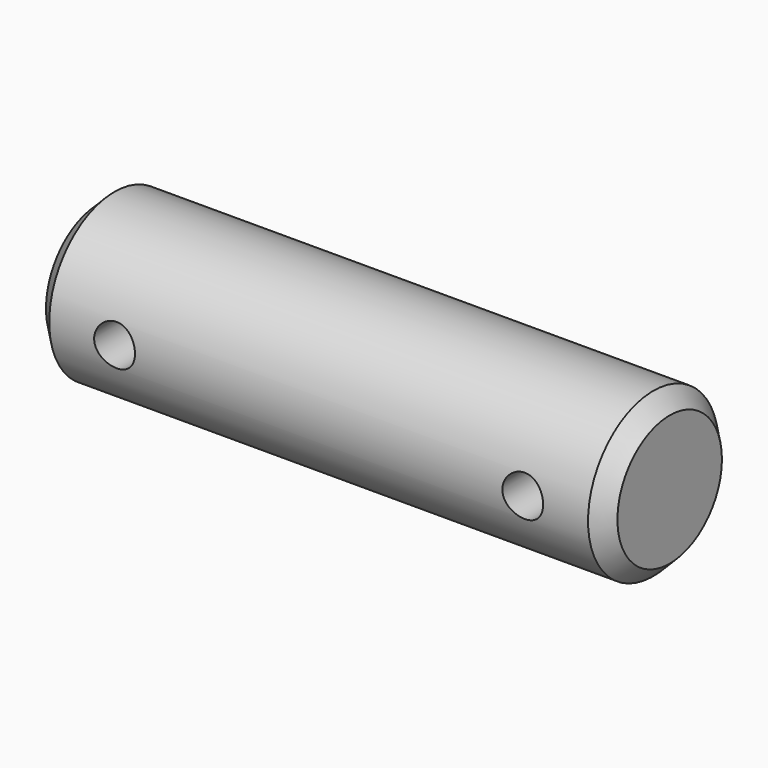
from build123d import *

# Parameters (mm, degrees)
F0_R     = 25.4
F1_DEPTH = 177.8
F2_SIZE  = 5.08
F4_D     = 12.7
F5_D     = 12.7


with BuildPart() as f1:
    # F0 (on Right) → F1 (new body)
    with BuildSketch(Plane.YZ):
        Circle(F0_R)
    extrude(amount=F1_DEPTH)

    # F2
    f2_edges = [f1.edges().sort_by_distance(p)[0] for p in [
        (0, -25.4, 0),
        (177.8, -25.4, 0),
    ]]
    chamfer(f2_edges, length=F2_SIZE)

    # F4 (through all)
    with Locations(Plane(origin=(0, 0, 0), x_dir=(1, 0, 0), z_dir=(0, 1, 0))):
        with Locations((152.4, 0), (25.4, 0)):
            Hole(F4_D / 2)

    # F5 (through all)
    with Locations(Plane.XZ):
        with Locations((25.4, 0), (152.4, 0)):
            Hole(F5_D / 2)


solid = f1.part
